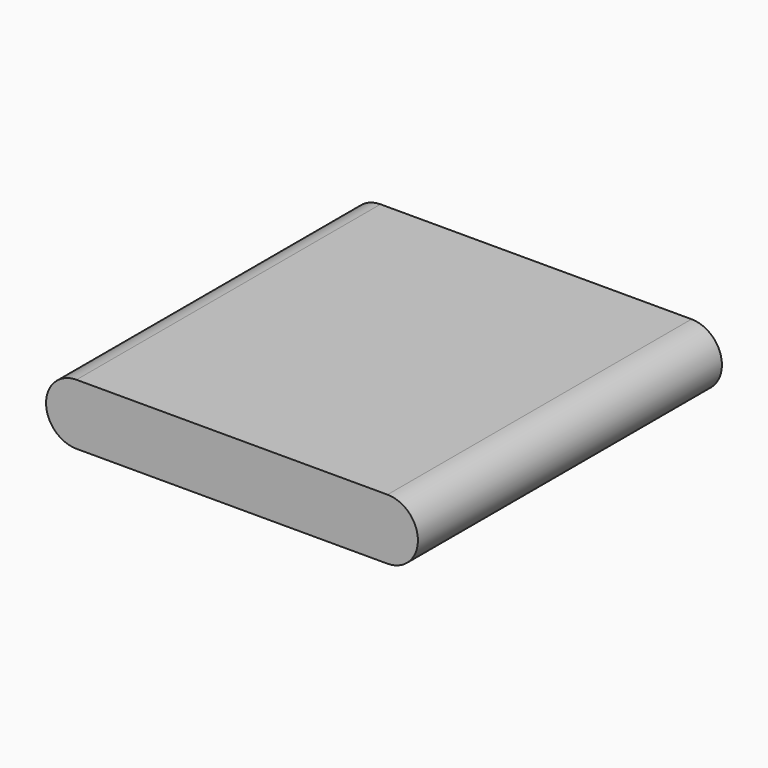
from build123d import *

# Parameters (mm, degrees)
F1_DEPTH = 250


with BuildPart() as f1:
    # F0 (on Front) → F1 (new body, symmetric)
    with BuildSketch(Plane.XZ):
        with BuildLine():
            Line((-409.262752, -40), (0, -40))
            ThreePointArc((0, -40), (40, 0), (0, 40))
            Line((0, 40), (-409.262752, 40))
            ThreePointArc((-409.262752, 40), (-437.90667, 27.919992), (-449.24965, -1.023701))
            ThreePointArc((-449.24965, -1.023701), (-437.182744, -28.643918), (-409.262752, -40))
        make_face()
    extrude(amount=F1_DEPTH, both=True)


solid = f1.part
